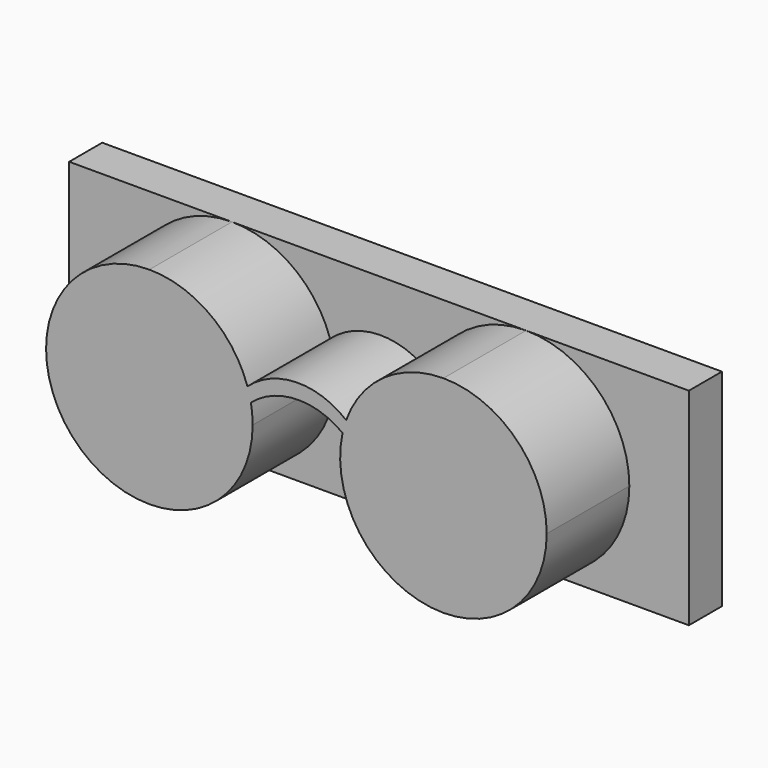
from build123d import *

# Parameters (mm, degrees)
F0_W     = 76.2
F0_H     = 25.4
F1_DEPTH = 5.08
F3_DEPTH = 12.7


with BuildPart() as f1:
    # F0 (on Front) → F1 (new body)
    with BuildSketch(Plane.XZ):
        Rectangle(F0_W, F0_H)
    extrude(amount=F1_DEPTH)

    # F2 (on face) → F3 (join)
    with BuildSketch(Plane.XZ.offset(5.08)):
        with BuildLine():
            ThreePointArc((-18.079832, -12.7), (-9.099576, -8.980256), (-5.379832, 0))
            ThreePointArc((-5.379832, 0), (-5.435483, 1.187617), (-5.601948, 2.364825))
            ThreePointArc((-5.601948, 2.364825), (-5.784143, 3.178999), (-6.019403, 3.979452))
            ThreePointArc((-6.019403, 3.979452), (-10.638362, 10.291478), (-18.079832, 12.7))
            ThreePointArc((-18.079832, 12.7), (-30.779832, 0), (-18.079832, -12.7))
        make_face()
        with BuildLine():
            ThreePointArc((-6.019403, 3.979452), (-5.784143, 3.178999), (-5.601948, 2.364825))
            ThreePointArc((-5.601948, 2.364825), (-0.027745, 4.54921), (5.678145, 2.736451))
            ThreePointArc((5.678145, 2.736451), (5.873958, 3.508082), (6.117731, 4.265928))
            ThreePointArc((6.117731, 4.265928), (-0.004095, 6.379128), (-6.019403, 3.979452))
        make_face()
        with BuildLine():
            ThreePointArc((6.117731, 4.265928), (5.873958, 3.508082), (5.678145, 2.736451))
            ThreePointArc((5.678145, 2.736451), (8.179253, -7.954152), (18.079832, -12.7))
            ThreePointArc((18.079832, -12.7), (27.060088, -8.980256), (30.779832, 0))
            ThreePointArc((30.779832, 0), (27.060088, 8.980256), (18.079832, 12.7))
            ThreePointArc((18.079832, 12.7), (10.761611, 10.379482), (6.117731, 4.265928))
        make_face()
    extrude(amount=F3_DEPTH)


solid = f1.part
